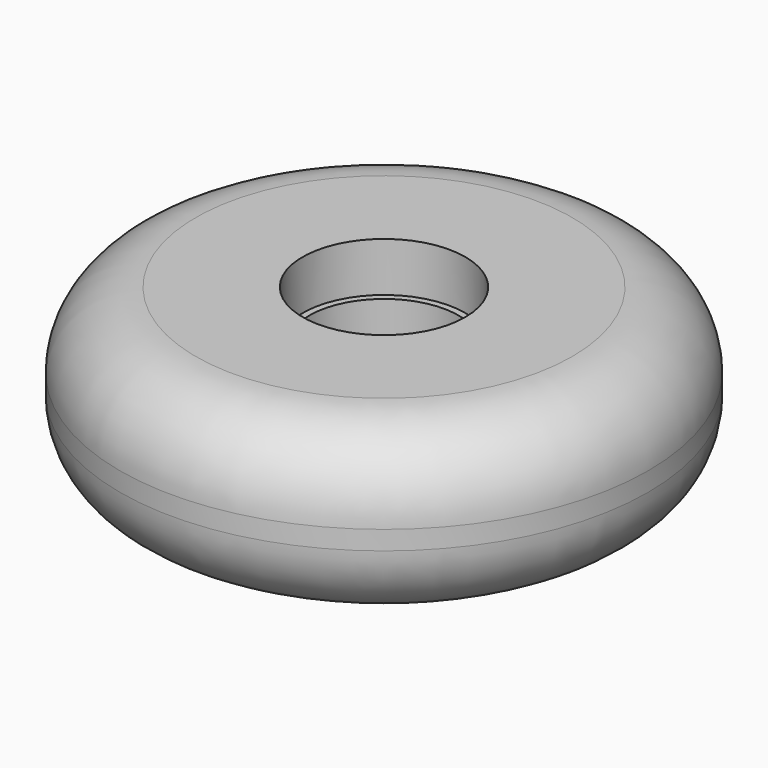
from build123d import *

# Parameters (mm, degrees)
F0_R           = 35.367098
F1_DEPTH       = 22.86
F2_D           = 20
F2_CBORE_D     = 22
F2_CBORE_DEPTH = 6.6
F3_R           = 10.89761
F4_DEPTH       = 6.604
F5_R           = 10.16


with BuildPart() as f1:
    # F0 (on Top) → F1 (new body)
    with BuildSketch(Plane.XY):
        Circle(F0_R)
    extrude(amount=F1_DEPTH)

    # F2 (through all)
    with Locations(Plane(origin=(0, 0, 0), x_dir=(1, 0, 0), z_dir=(0, 0, -1))):
        with Locations((0, 0)):
            CounterBoreHole(F2_D / 2, F2_CBORE_D / 2, F2_CBORE_DEPTH)

    # F3 (on face) → F4 (cut)
    with BuildSketch(Plane.XY.offset(22.86)):
        Circle(F3_R)
    extrude(amount=-F4_DEPTH, mode=Mode.SUBTRACT)

    # F5
    f5_edges = [f1.edges().sort_by_distance(p)[0] for p in [
        (35.367098, 0, 11.43),
        (-35.367098, 0, 0),
        (-35.367098, 0, 22.86),
    ]]
    fillet(f5_edges, radius=F5_R)


solid = f1.part
